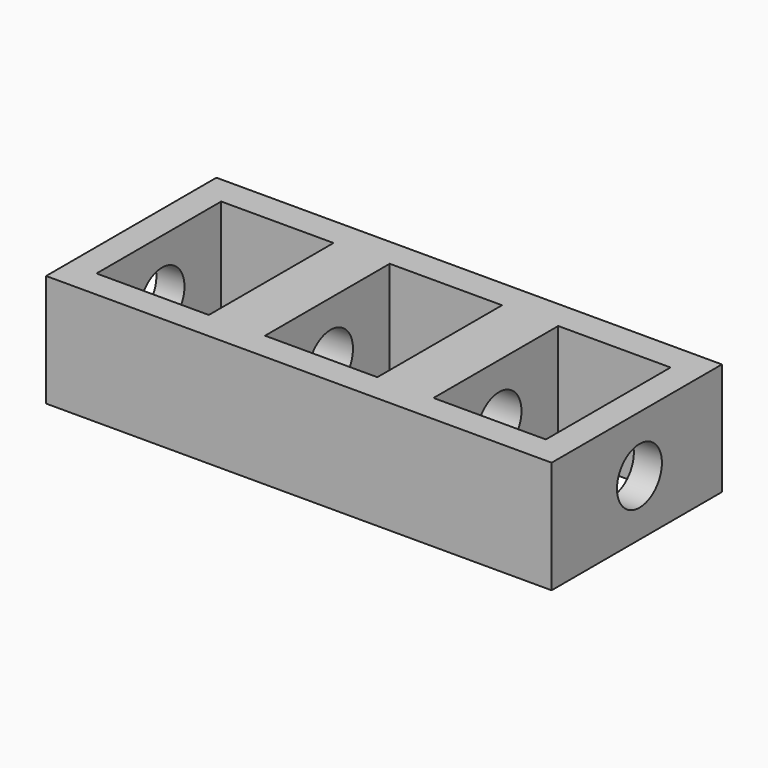
from build123d import *

# Parameters (mm, degrees)
SKETCH_W        = 180
SKETCH_H        = 75.807773
PAD_DEPTH       = 40
SKETCH001_W     = 40
SKETCH001_H     = 55.5
POCKET_DEPTH    = 40
SKETCH002_R     = 10.002665
POCKET001_DEPTH = 257


with BuildPart() as part:
    # Sketch → Pad (new body)
    with BuildSketch(Plane.XY):
        with Locations((90, -37.903886)):
            Rectangle(SKETCH_W, SKETCH_H)
    extrude(amount=PAD_DEPTH)

    # Sketch001 (on Face6 of Pad) → Pocket (cut)
    with BuildSketch(Plane.XY.offset(40)):
        with Locations((30, -38.113381)):
            Rectangle(SKETCH001_W, SKETCH001_H)
        with Locations((90, -38.113381)):
            Rectangle(SKETCH001_W, SKETCH001_H)
        with Locations((150, -38.113381)):
            Rectangle(SKETCH001_W, SKETCH001_H)
    extrude(amount=-POCKET_DEPTH, mode=Mode.SUBTRACT)

    # Sketch002 (on Face2 of Pocket) → Pocket001 (cut)
    with BuildSketch(Plane(origin=(0, 0, 0), x_dir=(0, -1, 0), z_dir=(-1, 0, 0))):
        with Locations((36.707787, 20)):
            Circle(SKETCH002_R)
    extrude(amount=-POCKET001_DEPTH, mode=Mode.SUBTRACT)


solid = part.part
